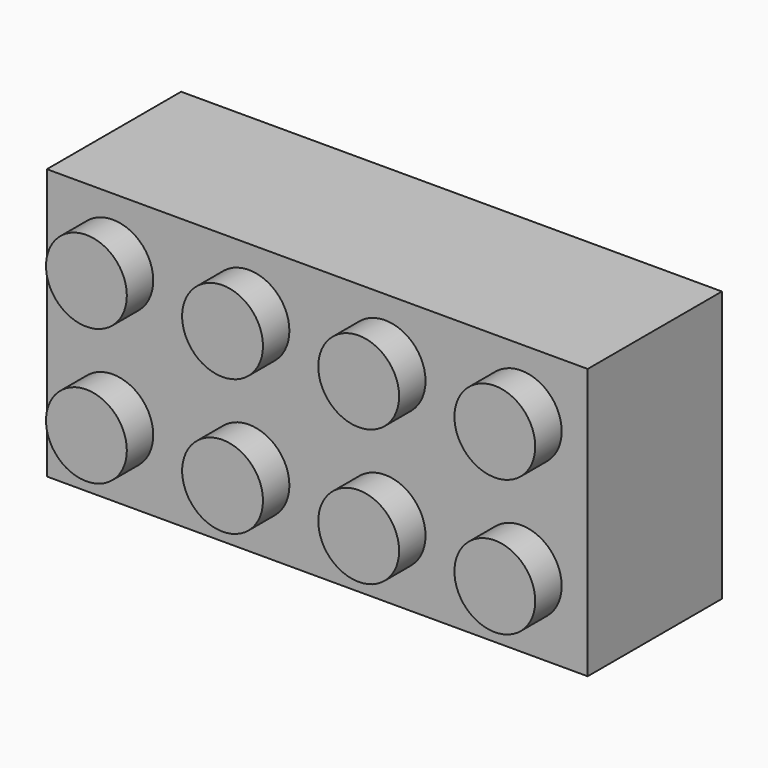
from build123d import *

# Parameters (mm, degrees)
F0_W      = 807.212
F0_H      = 403.86
F1_DEPTH  = 250.444
F2_R      = 60.325
F3_DEPTH  = 49.276
F4_T      = -25.4
F5_R      = 65.0773908114
F6_DEPTH  = 222.25
F7_R      = 62.8893110404
F8_DEPTH  = 222.25
F9_R      = 59.4615536077
F10_DEPTH = 222.25
F11_T     = -7.62


with BuildPart() as f1:
    # F0 (on Front) → F1 (new body)
    with BuildSketch(Plane.XZ):
        with Locations((41.8836543641, 201.93)):
            Rectangle(F0_W, F0_H)
    extrude(amount=F1_DEPTH)

    # F2 (on face) → F3 (join)
    with BuildSketch(Plane.XZ.offset(250.444)):
        with Locations((-263.2973456359, 309.245)):
            Circle(F2_R)
        with Locations((-263.2973456359, 106.045)):
            Circle(F2_R)
        with Locations((-60.0973456359, 309.245)):
            Circle(F2_R)
        with Locations((-60.0973456359, 106.045)):
            Circle(F2_R)
        with Locations((143.1026543641, 309.245)):
            Circle(F2_R)
        with Locations((143.1026543641, 106.045)):
            Circle(F2_R)
        with Locations((346.3026543641, 309.245)):
            Circle(F2_R)
        with Locations((346.3026543641, 106.045)):
            Circle(F2_R)
    extrude(amount=F3_DEPTH)

    # F4
    f4_openings = [f1.faces().sort_by_distance(p)[0] for p in [
        (41.883654, 0, 201.93),
    ]]
    offset(amount=F4_T, openings=f4_openings, kind=Kind.INTERSECTION)

    # F5 (on face) → F6 (join)
    with BuildSketch(Plane(origin=(0, -225.044, 0), x_dir=(-1, 0, 0), z_dir=(0, 1, 0))):
        with Locations((-246.4204579592, 209.5521092415)):
            Circle(F5_R)
    extrude(amount=F6_DEPTH)

    # F7 (on face) → F8 (join)
    with BuildSketch(Plane(origin=(0, -225.044, 0), x_dir=(-1, 0, 0), z_dir=(0, 1, 0))):
        with Locations((-39.1637831926, 205.74)):
            Circle(F7_R)
    extrude(amount=F8_DEPTH)

    # F9 (on face) → F10 (join)
    with BuildSketch(Plane(origin=(0, -225.044, 0), x_dir=(-1, 0, 0), z_dir=(0, 1, 0))):
        with Locations((166.5345877409, 205.74)):
            Circle(F9_R)
    extrude(amount=F10_DEPTH)

    # F11
    f11_openings = [f1.faces().sort_by_distance(p)[0] for p in [
        (246.420458, -2.794, 209.552109),
        (39.163783, -2.794, 205.74),
        (-166.534588, -2.794, 205.74),
    ]]
    offset(amount=F11_T, openings=f11_openings, kind=Kind.INTERSECTION)


solid = f1.part
